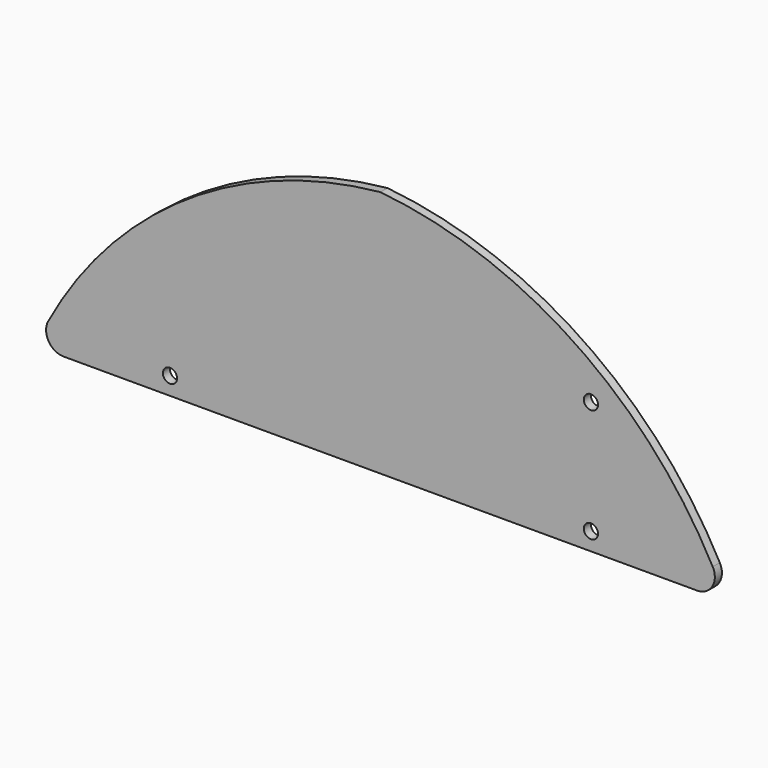
from build123d import *

# Parameters (mm, degrees)
F0_R     = 2
F1_DEPTH = 2.5


with BuildPart() as f1:
    # F0 (on Front) → F1 (new body)
    with BuildSketch(Plane.XZ):
        with BuildLine():
            Line((-89.458244, 0), (0, 0))
            Line((0, 0), (89.458244, 0))
            ThreePointArc((89.458244, 0), (93.749451, 2.43377), (93.863134, 7.365785))
            ThreePointArc((93.863134, 7.365785), (54.753059, 50.404118), (0, 70))
            ThreePointArc((0, 70), (-54.753059, 50.404118), (-93.863134, 7.365785))
            ThreePointArc((-93.863134, 7.365785), (-93.749451, 2.43377), (-89.458244, 0))
        make_face()
        with Locations((-59.458244, 5)):
            Circle(F0_R, mode=Mode.SUBTRACT)
        with Locations((59.458244, 5)):
            Circle(F0_R, mode=Mode.SUBTRACT)
        with BuildLine():
            ThreePointArc((59.458244, 39.098758), (60.872457, 38.512971), (61.458244, 37.098758))
            ThreePointArc((61.458244, 37.098758), (58.04403, 35.684544), (59.458244, 39.098758))
        make_face(mode=Mode.SUBTRACT)
    extrude(amount=F1_DEPTH)


solid = f1.part
